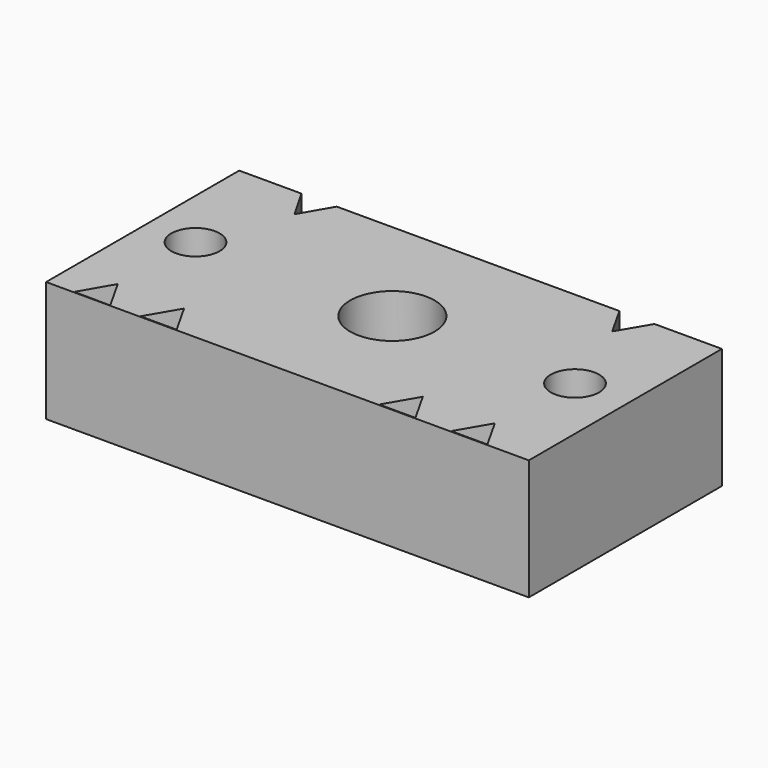
from build123d import *

# Parameters (mm, degrees)
F0_W     = 40
F0_H     = 20
F2_DEPTH = 10
F1_R     = 2
F1_R_2   = 3.5
F3_DEPTH = 10.001


with BuildPart() as f2:
    # F0 (on Top) → F2 (new body)
    with BuildSketch(Plane.XY):
        with Locations((-2.798222, 11.374097)):
            Rectangle(F0_W, F0_H)
    extrude(amount=F2_DEPTH)

    # F1 (on face) → F3 (cut, through all)
    with BuildSketch(Plane.XY):
        Polygon((-19.000965, 4.051001), (-20.509667, 1.438502), (-17.509808, 1.40941), align=None)
        Polygon((-13.507242, 4.051001), (-15.032506, 1.438502), (-12.032506, 1.438502), align=None)
        Polygon((6.278188, 4.051001), (4.752924, 1.438502), (7.752924, 1.438502), align=None)
        Polygon((12.241927, 4.051001), (10.716663, 1.438502), (13.716663, 1.438502), align=None)
        with Locations((12.804942, 11.651881)):
            Circle(F1_R)
        with Locations((-2.328113, 11.651881)):
            Circle(F1_R_2)
        with Locations((-18.731311, 11.7644)):
            Circle(F1_R)
        Polygon((-16.180249, 18.838981), (-14.716598, 21.374097), (-17.643899, 21.374097), align=None)
        Polygon((11.616977, 21.374097), (8.706248, 21.374097), (10.129022, 18.853648), align=None)
    extrude(amount=F3_DEPTH, mode=Mode.SUBTRACT)


solid = f2.part
